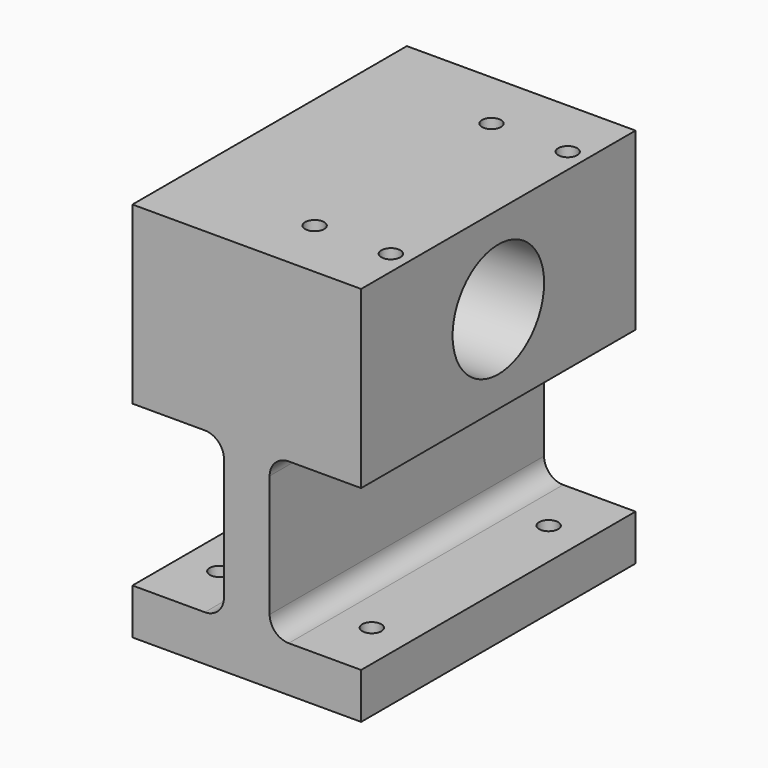
from build123d import *

# Parameters (mm, degrees)
F1_DEPTH      = 45
F1_DEPTH_BACK = 45
F2_R          = 5
F3_R          = 15
F4_DEPTH      = 60
F5_R          = 2.5
F6_DEPTH      = 12
F7_R          = 2.5
F8_DEPTH      = 20


with BuildPart() as f1:
    # F0 (on Front) → F1 (new body, two sides)
    with BuildSketch(Plane.XZ) as f1_sk:
        Polygon((0, 12), (0, 0), (60, 0), (60, 12), (36, 12), (36, 54), (60, 54), (60, 100), (0, 100), (0, 54), (24, 54), (24, 12), align=None)
    extrude(amount=F1_DEPTH)
    extrude(f1_sk.sketch, amount=-F1_DEPTH_BACK)

    # F2
    f2_edges = [f1.edges().sort_by_distance(p)[0] for p in [
        (36, 0, 54),
        (36, 0, 12),
        (24, 0, 12),
        (24, 0, 54),
    ]]
    fillet(f2_edges, radius=F2_R)

    # F3 (on face) → F4 (cut)
    with BuildSketch(Plane.YZ.offset(60)):
        with Locations((0, 77)):
            Circle(F3_R)
    extrude(amount=-F4_DEPTH, mode=Mode.SUBTRACT)

    # F5 (on face) → F6 (cut)
    with BuildSketch(Plane(origin=(0, 0, 0), x_dir=(1, 0, 0), z_dir=(0, 0, -1))):
        with Locations((10, 29)):
            Circle(F5_R)
        with Locations((10, -29)):
            Circle(F5_R)
        with Locations((50, -29)):
            Circle(F5_R)
        with Locations((50, 29)):
            Circle(F5_R)
    extrude(amount=-F6_DEPTH, mode=Mode.SUBTRACT)

    # F7 (on face) → F8 (cut)
    with BuildSketch(Plane.XY.offset(100)):
        with Locations((35, 29)):
            Circle(F7_R)
        with Locations((55, 29)):
            Circle(F7_R)
        with Locations((55, -29)):
            Circle(F7_R)
        with Locations((35, -29)):
            Circle(F7_R)
    extrude(amount=-F8_DEPTH, mode=Mode.SUBTRACT)


solid = f1.part
